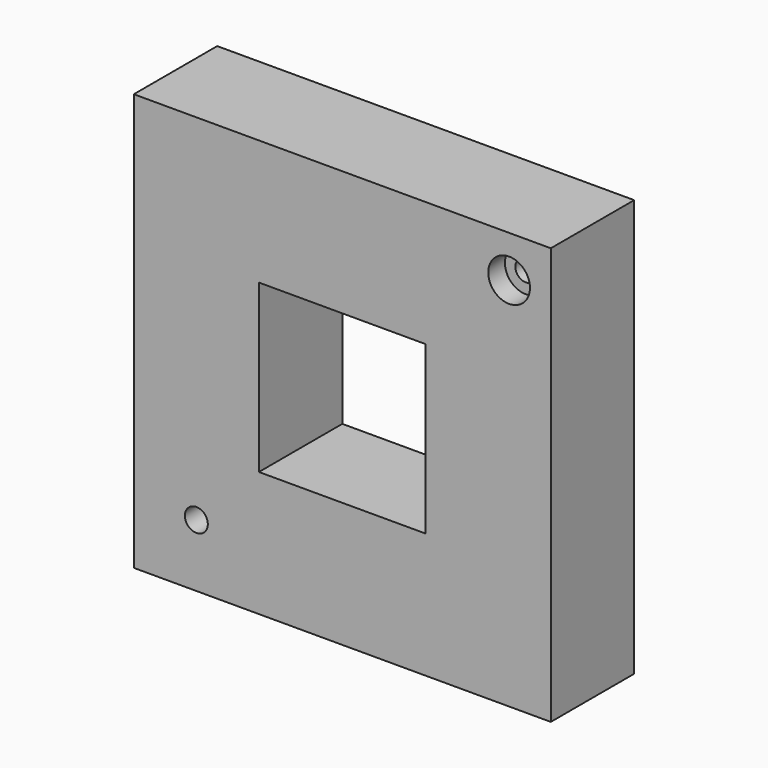
from build123d import *

# Parameters (mm, degrees)
F0_W           = 100
F0_H           = 100
F1_DEPTH       = 25
F2_W           = 40
F2_H           = 40
F3_DEPTH       = 25
F5_D           = 5
F5_CBORE_D     = 10
F5_CBORE_DEPTH = 5
F7_D           = 5.5


with BuildPart() as f1:
    # F0 (on Front) → F1 (new body)
    with BuildSketch(Plane.XZ):
        with Locations((50, 50)):
            Rectangle(F0_W, F0_H)
    extrude(amount=F1_DEPTH)

    # F2 (on face) → F3 (cut)
    with BuildSketch(Plane.XZ.offset(25)):
        with Locations((50, 50)):
            Rectangle(F2_W, F2_H)
    extrude(amount=-F3_DEPTH, mode=Mode.SUBTRACT)

    # F5 (through all)
    with Locations(Plane.XZ.offset(25)):
        with Locations((90, 90)):
            CounterBoreHole(F5_D / 2, F5_CBORE_D / 2, F5_CBORE_DEPTH)

    # F7 (through all)
    with Locations(Plane.XZ.offset(25)):
        with Locations((15, 15)):
            Hole(F7_D / 2)


solid = f1.part
